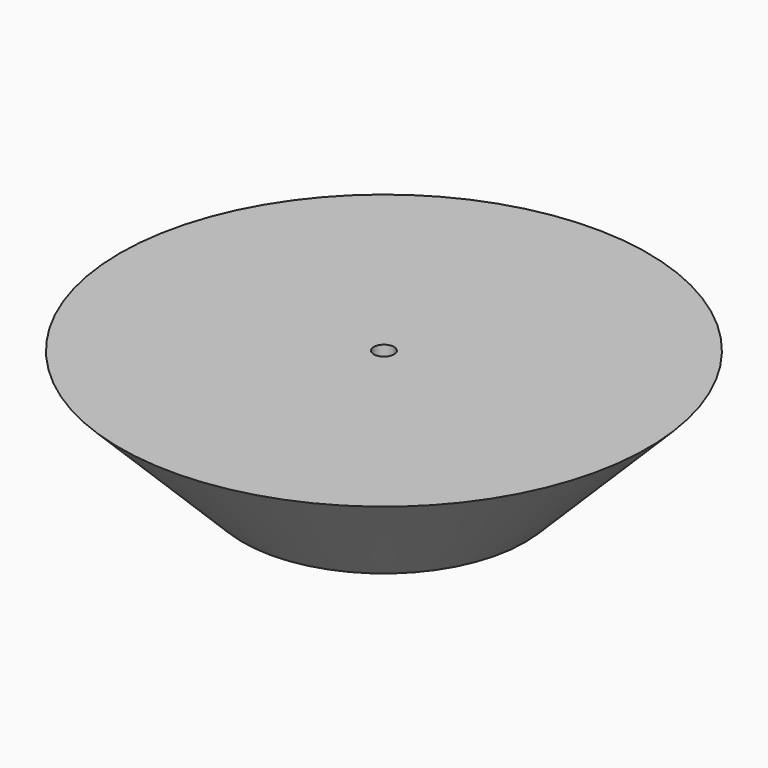
from build123d import *

# Parameters (mm, degrees)
F3_D = 3.3


with BuildPart() as f1:
    # F0 (on Front) → F1 (revolve)
    with BuildSketch(Plane.XZ):
        Polygon((0, 10), (-43, 10), (-23, -10), (0, -10), align=None)
        Polygon((-21.3431457505, -6), (-33.3431457505, 6), (-4, 6), (-4, -6), align=None, mode=Mode.SUBTRACT)
    revolve(axis=Axis((0, 0, 0), (0, 0, -1)))

    # F3 (through all)
    with Locations(Plane(origin=(0, 0, -10), x_dir=(1, 0, 0), z_dir=(0, 0, -1))):
        with Locations((0, 0)):
            Hole(F3_D / 2)


solid = f1.part
